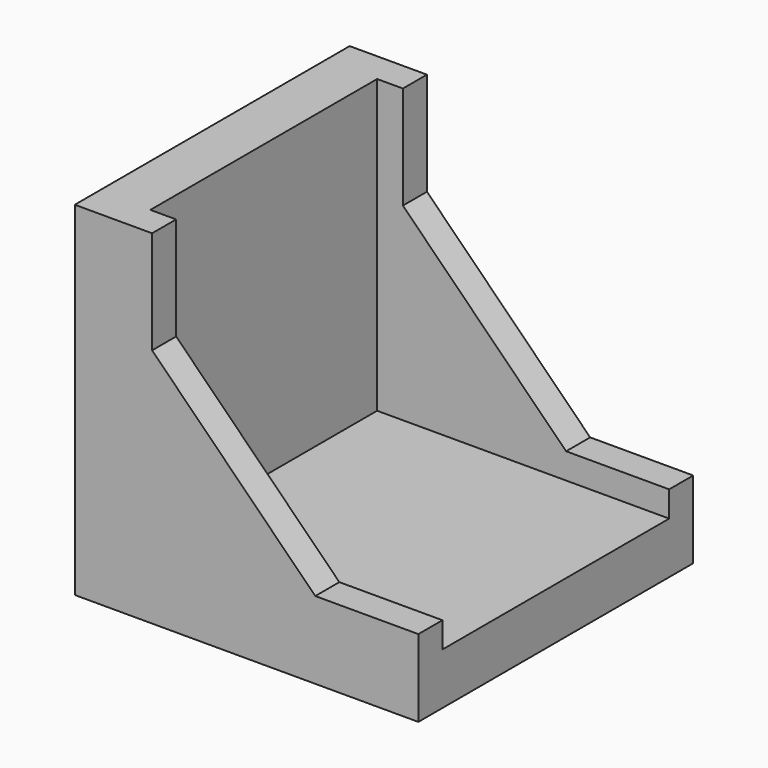
from build123d import *

# Parameters (mm, degrees)
F1_DEPTH = 40
F2_W     = 33
F2_H     = 34
F3_DEPTH = 34


with BuildPart() as f1:
    # F0 (on Front) → F1 (new body)
    with BuildSketch(Plane.XZ):
        Polygon((-14, 20), (-20, 20), (-20, -20), (20, -20), (20, -14), (20, -11), (8, -11), (-11, 8), (-11, 20), align=None)
    extrude(amount=-F1_DEPTH)

    # F2 (on face) → F3 (cut)
    with BuildSketch(Plane.YZ.offset(20)):
        with Locations((20, 3)):
            Rectangle(F2_W, F2_H)
    extrude(amount=-F3_DEPTH, mode=Mode.SUBTRACT)


solid = f1.part
